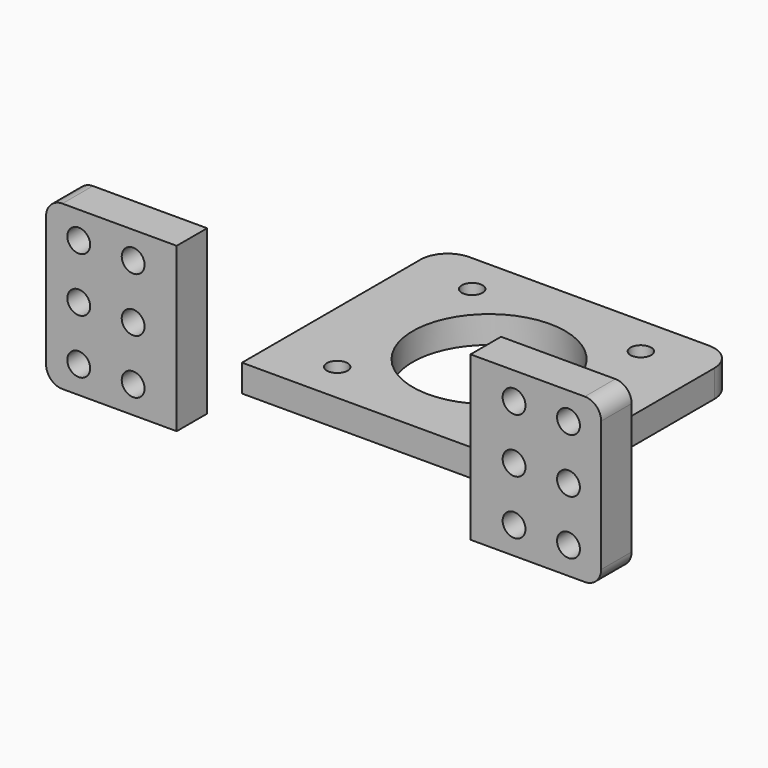
from build123d import *

# Parameters (mm, degrees)
CYLINDER006_R        = 1.9
CYLINDER006_DEPTH    = 10
ARRAY_X_COUNT        = 2
ARRAY_X_PITCH        = 31
ARRAY_Y_COUNT        = 2
ARRAY_Y_PITCH        = 31
CYLINDER009_R        = 2.1
CYLINDER009_DEPTH    = 10
ARRAY002_X_COUNT     = 3
ARRAY002_X_PITCH     = 10
ARRAY002_Y_COUNT     = 2
ARRAY002_Y_PITCH     = 10
BODY_PITCH_ANGLE     = -90
BODY_PLACEMENT_ANGLE = -90
CYLINDER005_R        = 14
CYLINDER005_DEPTH    = 20
BOX004_W             = 24
BOX004_H             = 7
BOX004_DEPTH         = 30
FILLET004_R          = 3
BOX003_W             = 54
BOX003_H             = 46
BOX003_DEPTH         = 5
FILLET001_R          = 5


with BuildPart() as stepper_bolt_hole_array:
    # Cylinder006 → Cylinder006 (new body)
    with BuildSketch(Plane(origin=(0, 38, 0), x_dir=(1, 0, 0), z_dir=(0, 0, 1))):
        Circle(CYLINDER006_R)
    extrude(amount=CYLINDER006_DEPTH)

    # Array X: stepper bolt hole array ×2


with BuildPart() as stepper_bolt_hole_array_1:
    add(stepper_bolt_hole_array.part)
    with Locations(*[(i * ARRAY_X_PITCH, 0, 0) for i in range(1, ARRAY_X_COUNT)]):
        add(stepper_bolt_hole_array.part)

    # Array Y: stepper bolt hole array ×2


with BuildPart() as stepper_bolt_hole_array_2:
    add(stepper_bolt_hole_array_1.part)
    with Locations(*[(0, i * ARRAY_Y_PITCH, 0) for i in range(1, ARRAY_Y_COUNT)]):
        add(stepper_bolt_hole_array_1.part)


with BuildPart() as stepper_bolt_hole_array_3:
    # Array placement: moved
    add(stepper_bolt_hole_array_2.part.moved(Location((-15.5, -15.5, 0))))


with BuildPart() as obj1:
    # Cylinder009 → Cylinder009 (new body)
    with BuildSketch(Plane.XY):
        Circle(CYLINDER009_R)
    extrude(amount=CYLINDER009_DEPTH)

    # Array002 X: obj1_3


with BuildPart() as obj1_1:
    add(obj1.part)
    with Locations(*[(i * ARRAY002_X_PITCH, 0, 0) for i in range(1, ARRAY002_X_COUNT)]):
        add(obj1.part)

    # Array002 Y: obj1_2


with BuildPart() as obj1_2:
    add(obj1_1.part)
    with Locations(*[(0, i * ARRAY002_Y_PITCH, 0) for i in range(1, ARRAY002_Y_COUNT)]):
        add(obj1_1.part)


with BuildPart() as obj1_3:
    # Body pitch: moved
    add(obj1_2.part.rotate(Axis((0, 0, 0), (0, 1, 0)), BODY_PITCH_ANGLE))


with BuildPart() as obj1_4:
    # Body placement: moved
    add(obj1_3.part.moved(Location((-45, 0, 5))).rotate(Axis((-45, 0, 5), (0, 0, 1)), BODY_PLACEMENT_ANGLE))


with BuildPart() as part_mirroring005:
    # Part__Mirroring005: instance of obj1
    add(obj1_4.part.mirror(Plane(origin=(0, 0, 0), x_dir=(0, -1, 0), z_dir=(1, 0, 0))))


with BuildPart() as stepper_wall_extract_fusion:
    # Cylinder005 → Cylinder005 (new body)
    with BuildSketch(Plane(origin=(0, 38, 0), x_dir=(1, 0, 0), z_dir=(0, 0, 1))):
        Circle(CYLINDER005_R)
    extrude(amount=CYLINDER005_DEPTH)

    # Fusion006: union stepper bolt hole array, Part__Mirroring005, obj1
    add(stepper_bolt_hole_array_3.part)
    add(part_mirroring005.part)
    add(obj1_4.part)


with BuildPart() as stepper_top_wall_fillet:
    # Box004 → Box004 (new body)
    with BuildSketch(Plane(origin=(27, 0, 0), x_dir=(1, 0, 0), z_dir=(0, 0, 1))):
        with Locations((12, 3.5)):
            Rectangle(BOX004_W, BOX004_H)
    extrude(amount=BOX004_DEPTH)

    # Fillet004
    fillet004_edges = [stepper_top_wall_fillet.edges().sort_by_distance(p)[0] for p in [
        (51, 3.5, 30),
        (51, 3.5, 0),
    ]]
    fillet(fillet004_edges, radius=FILLET004_R)


with BuildPart() as part_mirroring003:
    # Part__Mirroring003: instance of stepper top wall fillet
    add(stepper_top_wall_fillet.part.mirror(Plane(origin=(0, 0, 0), x_dir=(0, -1, 0), z_dir=(1, 0, 0))))


with BuildPart() as stepper_wall_cut:
    # Box003 → Box003 (new body)
    with BuildSketch(Plane(origin=(-27, 15, 0), x_dir=(1, 0, 0), z_dir=(0, 0, 1))):
        with Locations((27, 23)):
            Rectangle(BOX003_W, BOX003_H)
    extrude(amount=BOX003_DEPTH)

    # Fillet001
    fillet001_edges = [stepper_wall_cut.edges().sort_by_distance(p)[0] for p in [
        (-27, 61, 2.5),
        (27, 61, 2.5),
    ]]
    fillet(fillet001_edges, radius=FILLET001_R)

    # Fusion007: union stepper top wall fillet, Part__Mirroring003
    add(stepper_top_wall_fillet.part)
    add(part_mirroring003.part)

    # Cut003: cut stepper wall extract fusion
    add(stepper_wall_extract_fusion.part, mode=Mode.SUBTRACT)


solid = stepper_wall_cut.part
